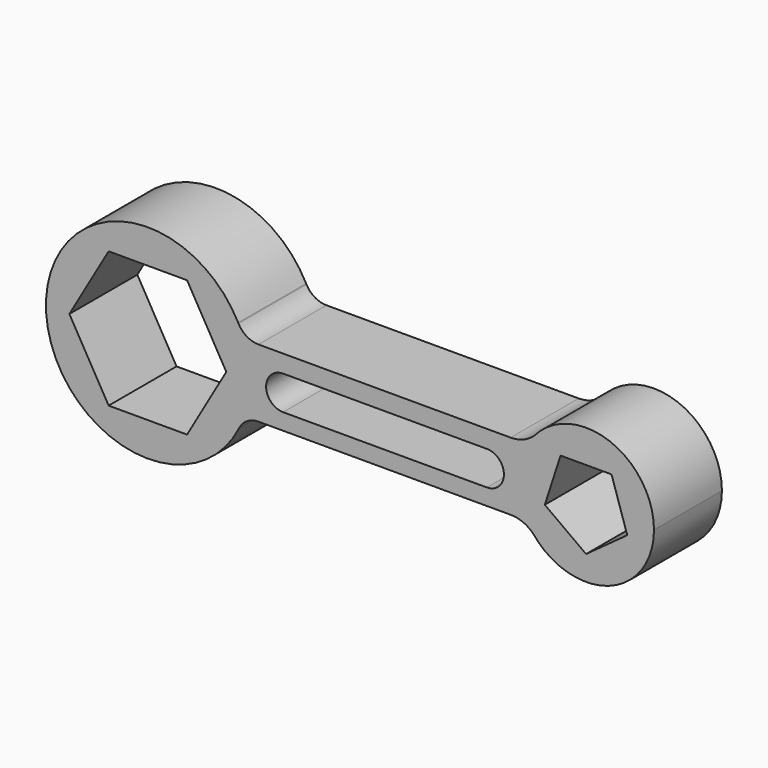
from build123d import *

# Parameters (mm, degrees)
F1_DEPTH = 25


with BuildPart() as f1:
    # F0 (on Front) → F1 (new body)
    with BuildSketch(Plane.XZ):
        with BuildLine():
            ThreePointArc((-5.880537, 13.704751), (-5.930992, 13.800238), (-5.979896, 13.896528))
            ThreePointArc((-5.979896, 13.896528), (-62.565958, -0.27665), (-5.728131, -13.403826))
            ThreePointArc((-5.728131, -13.403826), (-5.696161, -13.338485), (-5.663445, -13.273513))
            ThreePointArc((-5.663445, -13.273513), (-3.351539, -6.814922), (-2.567234, 0))
            ThreePointArc((-2.567234, 0), (-3.407322, 7.04979), (-5.880537, 13.704751))
        make_face()
        Polygon((-55.661245, 0), (-44.114239, 20), (-21.020229, 20), (-9.473223, 0), (-21.020229, -20), (-44.114239, -20), align=None, mode=Mode.SUBTRACT)
        with BuildLine():
            ThreePointArc((-5.880537, 13.704751), (-5.930044, 13.800729), (-5.979896, 13.896528))
            ThreePointArc((-5.979896, 13.896528), (-5.930992, 13.800238), (-5.880537, 13.704751))
        make_face()
        with BuildLine():
            ThreePointArc((-5.663445, -13.273513), (-5.696161, -13.338485), (-5.728131, -13.403826))
            ThreePointArc((-5.728131, -13.403826), (-5.695709, -13.338709), (-5.663445, -13.273513))
        make_face()
        with BuildLine():
            ThreePointArc((0, 10.193335), (-3.424571, 11.137986), (-5.880537, 13.704751))
            ThreePointArc((-5.880537, 13.704751), (-3.407322, 7.04979), (-2.567234, 0))
            ThreePointArc((-2.567234, 0), (-3.351539, -6.814922), (-5.663445, -13.273513))
            ThreePointArc((-5.663445, -13.273513), (-3.320152, -10.74219), (0, -9.806665))
            Line((0, -9.806665), (74.239305, -9.806665))
            ThreePointArc((74.239305, -9.806665), (77.762966, -10.490608), (80.774891, -12.443109))
            ThreePointArc((80.774891, -12.443109), (76.436122, 0.366366), (81.241196, 13.008313))
            ThreePointArc((81.241196, 13.008313), (78.012585, 10.923427), (74.239305, 10.193335))
            Line((74.239305, 10.193335), (0, 10.193335))
        make_face()
        with BuildLine():
            ThreePointArc((7.253171, -5), (2.253171, 0), (7.253171, 5))
            Line((7.253171, 5), (67.253171, 5))
            ThreePointArc((67.253171, 5), (72.253171, 0), (67.253171, -5))
            Line((67.253171, -5), (7.253171, -5))
        make_face(mode=Mode.SUBTRACT)
        with BuildLine():
            ThreePointArc((116.432766, 0), (103.36705, 18.759416), (81.241196, 13.008313))
            ThreePointArc((81.241196, 13.008313), (76.436122, 0.366366), (80.774891, -12.443109))
            ThreePointArc((80.774891, -12.443109), (103.022247, -18.883293), (116.432766, 0))
        make_face()
        Polygon((84.297511, -3.942983), (88.932766, 10.322864), (103.932766, 10.322864), (108.568021, -3.942983), (96.432766, -12.759762), align=None, mode=Mode.SUBTRACT)
    extrude(amount=F1_DEPTH)


solid = f1.part
